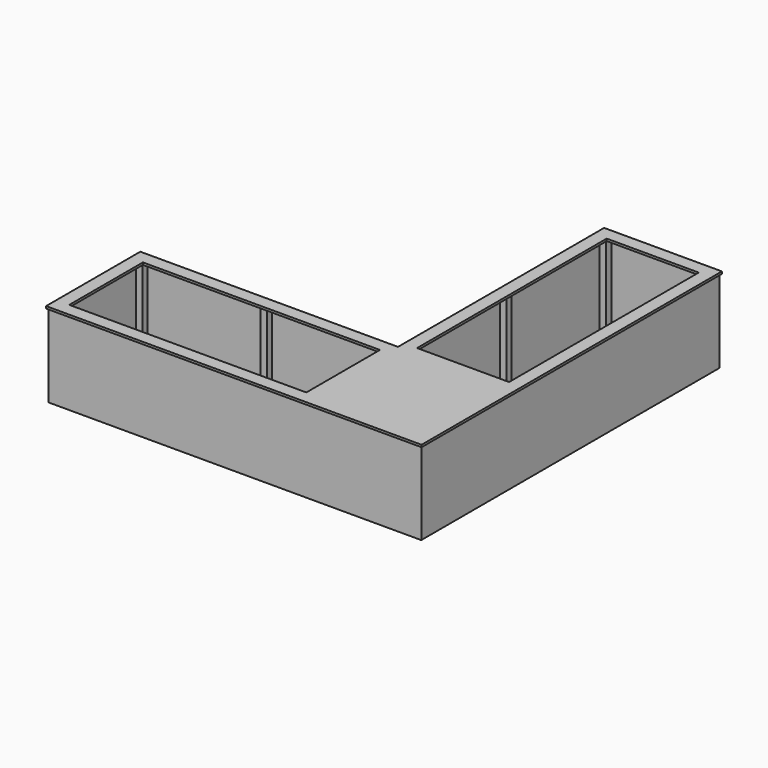
from build123d import *

# Parameters (mm, degrees)
F1_W     = 70
F1_H     = 70
F2_DEPTH = 900
F3_W     = 1200
F3_H     = 1200
F4_DEPTH = 900
F5_W     = 70
F5_H     = 70
F6_DEPTH = 1130
F7_W     = 2576
F7_H     = 1000
F7_W_2   = 1000
F7_H_2   = 2576
F8_DEPTH = 24


with BuildPart() as f2:
    # F1 (on Top) → F2 (new body)
    with BuildSketch(Plane.XY):
        with Locations((-1165, 3965)):
            Rectangle(F1_W, F1_H)
        with Locations((-35, 3965)):
            Rectangle(F1_W, F1_H)
        with Locations((-1165, 1259)):
            Rectangle(F1_W, F1_H)
        with Locations((-1259, 1165)):
            Rectangle(F1_W, F1_H)
        with Locations((-35, 35)):
            Rectangle(F1_W, F1_H)
        with Locations((-3965, 35)):
            Rectangle(F1_W, F1_H)
        with Locations((-3965, 1165)):
            Rectangle(F1_W, F1_H)
        with Locations((-1165, 2612)):
            Rectangle(F1_W, F1_H)
        with Locations((-35, 1259)):
            Rectangle(F1_W, F1_H)
        with Locations((-35, 2612)):
            Rectangle(F1_W, F1_H)
        with Locations((-2612, 1165)):
            Rectangle(F1_W, F1_H)
        with Locations((-2612, 35)):
            Rectangle(F1_W, F1_H)
        with Locations((-1259, 35)):
            Rectangle(F1_W, F1_H)
    extrude(amount=F2_DEPTH)


with BuildPart() as f4:
    # F3 (on Top) → F4 (new body)
    with BuildSketch(Plane.XY):
        Polygon((-1200, 1224), (-1200, 4000), (-1224, 4000), (-1224, 1224), (-4000, 1224), (-4000, 1200), (-1224, 1200), (-1224, 0), (-4000, 0), (-4000, -24), (0, -24), (24, -24), (24, 4000), (0, 4000), (0, 1224), align=None)
        with Locations((-600, 600)):
            Rectangle(F3_W, F3_H, mode=Mode.SUBTRACT)
        Polygon((-1224, 4000), (-1200, 4000), (0, 4000), (24, 4000), (24, 4024), (-1224, 4024), align=None)
        Polygon((-4000, 1200), (-4000, 1224), (-4024, 1224), (-4024, -24), (-4000, -24), (-4000, 0), align=None)
    extrude(amount=F4_DEPTH)


with BuildPart() as f6:
    # F5 (on face) → F6 (new body, through all)
    with BuildSketch(Plane.XZ.offset(-1200)):
        with Locations((-1165, 865)):
            Rectangle(F5_W, F5_H)
        with Locations((-35, 865)):
            Rectangle(F5_W, F5_H)
    extrude(amount=F6_DEPTH)


with BuildPart() as f8:
    # F7 (on face) → F8 (new body)
    with BuildSketch(Plane.XY.offset(900)):
        Polygon((40, 4040), (-1240, 4040), (-1240, 1240), (-4040, 1240), (-4040, -40), (40, -40), align=None)
        with Locations((-2612, 600)):
            Rectangle(F7_W, F7_H, mode=Mode.SUBTRACT)
        with Locations((-600, 2612)):
            Rectangle(F7_W_2, F7_H_2, mode=Mode.SUBTRACT)
    extrude(amount=F8_DEPTH)


solid = Compound([f2.part, f4.part, f6.part, f8.part])
